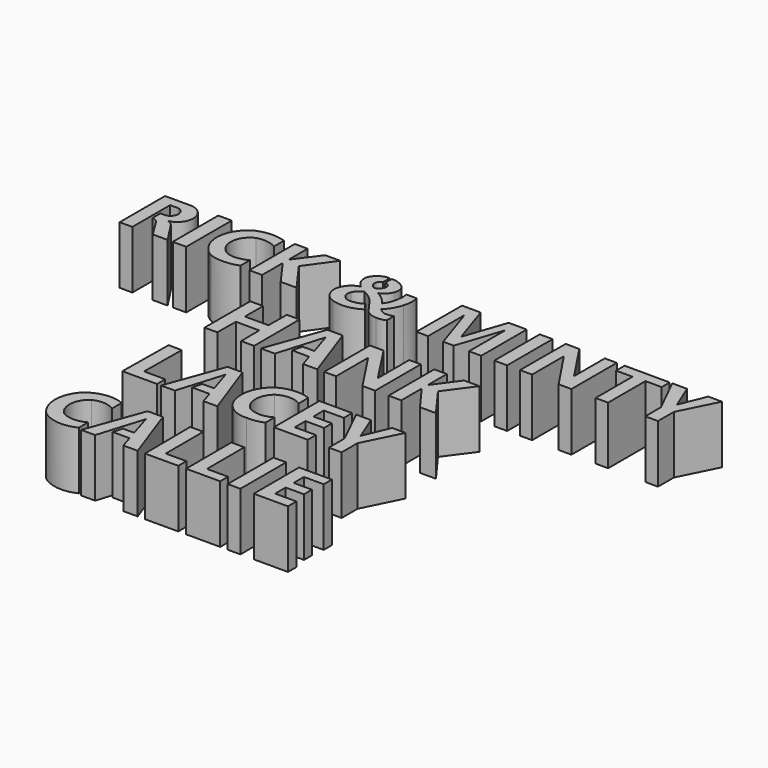
from build123d import *

# Parameters (mm, degrees)
F0_W     = 5.924996
F0_H     = 24.977938
F0_W_2   = 5.664483
F0_H_2   = 24.981067
F0_W_3   = 5.595386
F0_H_3   = 25.144718
F1_DEPTH = 25.4


with BuildPart() as f1:
    # F0 (on Top) → F1 (new body)
    with BuildSketch(Plane.XY):
        with BuildLine():
            Line((40.70925, 242.616519), (47.254633, 242.616519))
            Line((47.254633, 242.616519), (41.246559, 251.826227))
            ThreePointArc((41.246559, 251.826227), (40.093919, 253.021014), (38.581137, 253.704816))
            ThreePointArc((38.581137, 253.704816), (44.086125, 261.692934), (36.337521, 267.530233))
            Line((36.337521, 267.530233), (26.17752, 267.530233))
            Line((26.17752, 267.530233), (26.17752, 242.616519))
            Line((26.17752, 242.616519), (31.770404, 242.616519))
            Line((31.770404, 242.616519), (31.770404, 263.353884))
            Line((31.770404, 263.353884), (35.189636, 263.353884))
            ThreePointArc((35.189636, 263.353884), (38.211639, 259.821173), (35.018675, 256.442189))
            Line((35.018675, 256.442189), (33.015981, 256.442189))
            Line((33.015981, 256.442189), (33.015981, 252.192557))
            ThreePointArc((33.015981, 252.192557), (34.723409, 251.563932), (35.995595, 250.263155))
            Line((35.995595, 250.263155), (40.70925, 242.616519))
        make_face()
        with Locations((52.472873, 255.105488)):
            Rectangle(F0_W, F0_H)
        with BuildLine():
            ThreePointArc((70.004217, 262.701571), (74.491865, 263.076933), (78.777239, 261.692934))
            Line((78.777239, 261.692934), (78.777239, 267.157167))
            ThreePointArc((78.777239, 267.157167), (72.705284, 268.073284), (66.688433, 266.846329))
            ThreePointArc((66.688433, 266.846329), (59.200569, 255.201797), (65.894023, 243.083179))
            ThreePointArc((65.894023, 243.083179), (72.340089, 242.049312), (78.742698, 243.32495))
            Line((78.742698, 243.32495), (78.742698, 248.574957))
            ThreePointArc((78.742698, 248.574957), (74.477052, 247.084853), (69.969676, 247.400612))
            ThreePointArc((69.969676, 247.400612), (65.056925, 255.062221), (70.004217, 262.701571))
        make_face()
        Polygon((83.218813, 267.519742), (83.218813, 242.505327), (88.846028, 242.541939), (88.846028, 253.874242), (96.982561, 242.541939), (103.967562, 242.541939), (94.575927, 255.522072), (103.181042, 267.519742), (96.568041, 267.519742), (88.846028, 257.127851), (88.846028, 267.519742), align=None)
        with BuildLine():
            Line((124.564543, 264.224023), (124.564543, 267.988831))
            ThreePointArc((124.564543, 267.988831), (120.279832, 266.718083), (117.829353, 262.98061))
            ThreePointArc((117.829353, 262.98061), (118.543377, 259.554037), (120.886095, 256.953478))
            ThreePointArc((120.886095, 256.953478), (117.190486, 255.071708), (115.03166, 251.530796))
            ThreePointArc((115.03166, 251.530796), (115.711623, 246.161746), (119.918995, 242.757767))
            ThreePointArc((119.918995, 242.757767), (126.330885, 242.249439), (132.335931, 244.553819))
            Line((132.335931, 244.553819), (129.831821, 247.955948))
            ThreePointArc((129.831821, 247.955948), (126.564415, 246.514044), (122.993007, 246.50529))
            ThreePointArc((122.993007, 246.50529), (120.736857, 248.512169), (120.661594, 251.530796))
            ThreePointArc((120.661594, 251.530796), (122.028875, 253.468712), (124.029197, 254.74295))
            ThreePointArc((124.029197, 254.74295), (127.014712, 253.026463), (129.555508, 250.701815))
            Line((129.555508, 250.701815), (133.717522, 244.950995))
            ThreePointArc((133.717522, 244.950995), (136.039845, 242.905928), (139.053866, 242.205098))
            ThreePointArc((139.053866, 242.205098), (141.223956, 242.265591), (143.284947, 242.947698))
            Line((143.284947, 242.947698), (143.302217, 247.040629))
            ThreePointArc((143.302217, 247.040629), (141.328125, 246.422184), (139.261097, 246.50529))
            ThreePointArc((139.261097, 246.50529), (137.863903, 247.177249), (136.653364, 248.145893))
            ThreePointArc((136.653364, 248.145893), (139.177718, 251.407027), (140.815377, 255.191922))
            ThreePointArc((140.815377, 255.191922), (141.462365, 258.622938), (141.143501, 262.099832))
            Line((141.143501, 262.099832), (136.497945, 262.117118))
            ThreePointArc((136.497945, 262.117118), (136.780226, 260.225811), (136.653364, 258.317769))
            ThreePointArc((136.653364, 258.317769), (135.886331, 254.814284), (134.131983, 251.686186))
            ThreePointArc((134.131983, 251.686186), (131.56731, 254.64252), (128.312096, 256.815314))
            ThreePointArc((128.312096, 256.815314), (130.9033, 258.484975), (132.422283, 261.167288))
            ThreePointArc((132.422283, 261.167288), (132.545246, 263.848969), (131.092519, 266.106427))
            ThreePointArc((131.092519, 266.106427), (128.445333, 267.545478), (125.462562, 267.971545))
            Line((125.462562, 267.971545), (125.462562, 264.31039))
            ThreePointArc((125.462562, 264.31039), (127.352221, 263.422792), (127.655819, 261.357248))
            ThreePointArc((127.655819, 261.357248), (126.565506, 259.834113), (124.892667, 258.991301))
            ThreePointArc((124.892667, 258.991301), (123.561699, 260.04581), (122.768492, 261.547238))
            ThreePointArc((122.768492, 261.547238), (123.156344, 263.227943), (124.564543, 264.224023))
        make_face()
        Polygon((179.69273, 242.61339), (185.065806, 242.61339), (185.065806, 267.594457), (177.103882, 267.624082), (170.851588, 249.309435), (164.8435, 267.594457), (156.637713, 267.624989), (156.544649, 242.61339), (161.71745, 242.594143), (161.71745, 262.64444), (168.360427, 242.61339), (173.001096, 242.596123), (179.69273, 262.64444), align=None)
        with Locations((193.635084, 255.103923)):
            Rectangle(F0_W_2, F0_H_2)
        Polygon((202.184987, 267.594457), (202.092037, 242.61339), (207.436159, 242.61339), (207.436159, 260.017574), (219.054167, 242.634354), (224.688373, 242.61339), (224.688373, 267.574788), (219.402328, 267.594457), (219.402328, 250.701815), (208.191317, 267.572108), align=None)
        Polygon((247.981099, 267.52054), (228.115559, 267.594457), (228.115559, 262.890706), (235.318656, 262.863904), (235.318656, 242.633924), (240.837405, 242.61339), (240.837405, 263.122824), (247.981099, 263.096243), align=None)
        Polygon((255.541998, 267.550628), (249.048769, 267.574788), (257.090271, 251.317441), (257.177413, 242.633253), (262.724847, 242.604211), (262.760937, 251.368493), (270.877689, 267.567486), (264.867842, 267.636597), (260.205001, 256.204039), align=None)
        Polygon((97.850189, 224.71565), (97.850189, 199.618205), (103.478454, 199.675635), (103.535883, 209.783524), (113.816075, 209.726095), (113.931095, 199.662595), (119.616628, 199.675635), (119.559199, 224.71565), (113.98837, 224.71565), (113.873504, 214.722618), (103.535883, 214.722618), (103.535883, 224.71565), align=None)
        Polygon((131.792054, 224.71565), (122.603059, 199.618205), (128.748193, 199.618205), (134.835914, 219.948858), (138.166919, 209.611237), (132.998109, 209.611237), (131.906912, 205.246463), (139.372975, 205.131605), (141.21078, 199.618205), (147.413358, 199.618205), (138.511509, 224.71565), align=None)
        Polygon((150.457203, 224.71565), (150.457203, 199.618205), (155.683458, 199.618205), (155.683458, 217.192158), (167.284563, 199.618205), (172.855392, 199.618205), (172.855392, 224.71565), (167.744011, 224.71565), (167.744011, 207.428843), (156.487495, 224.71565), align=None)
        Polygon((178.770825, 224.658236), (178.770825, 199.618205), (184.341654, 199.618205), (184.341654, 210.817307), (192.55431, 199.618205), (199.560925, 199.618205), (189.969912, 212.712526), (198.699459, 224.600792), (191.980004, 224.600792), (184.341654, 214.148313), (184.341654, 224.658236), align=None)
        Polygon((102.20525, 181.665241), (96.370123, 181.80342), (96.082038, 156.740718), (111.327313, 156.740718), (111.275829, 161.245249), (101.970531, 161.245249), align=None)
        Polygon((122.248111, 181.80342), (113.071837, 156.740718), (119.154312, 156.740718), (125.321999, 176.886737), (128.617376, 166.471347), (123.409681, 166.471347), (122.351065, 162.255257), (129.924998, 162.255257), (131.711841, 156.740718), (137.803346, 156.740718), (128.828526, 181.80342), align=None)
        with BuildLine():
            ThreePointArc((147.787333, 175.781995), (153.04625, 177.30311), (158.305168, 175.781995))
            Line((158.305168, 175.781995), (158.244285, 181.108899))
            ThreePointArc((158.244285, 181.108899), (151.565545, 182.132525), (145.055413, 180.32378))
            ThreePointArc((145.055413, 180.32378), (139.731971, 173.669627), (139.250115, 165.161714))
            ThreePointArc((139.250115, 165.161714), (143.48076, 158.557298), (150.997311, 156.317174))
            ThreePointArc((150.997311, 156.317174), (154.714164, 156.530026), (158.305168, 157.512367))
            Line((158.305168, 157.512367), (158.305168, 162.600547))
            ThreePointArc((158.305168, 162.600547), (153.074008, 161.073183), (147.787333, 162.395656))
            ThreePointArc((147.787333, 162.395656), (144.704381, 169.088826), (147.787333, 175.781995))
        make_face()
        Polygon((162.676215, 181.689739), (162.676215, 156.658649), (177.565098, 156.692803), (177.565098, 161.166295), (168.310761, 161.166295), (168.310761, 167.039886), (176.438183, 167.039886), (176.438183, 171.376795), (168.310761, 171.376795), (168.310761, 177.113801), (177.087009, 177.113801), (177.087009, 181.689739), align=None)
        Polygon((186.853588, 165.332451), (186.853588, 156.658649), (192.488134, 156.658649), (192.488134, 165.366605), (200.581402, 181.621447), (194.673657, 181.621447), (189.926982, 170.284033), (185.385182, 181.655586), (178.862751, 181.655586), align=None)
        with BuildLine():
            ThreePointArc((95.372632, 115.849778), (102.837638, 113.158332), (110.637158, 114.620417))
            Line((110.637158, 114.620417), (110.625486, 119.708806))
            ThreePointArc((110.625486, 119.708806), (105.355328, 118.32244), (100.085169, 119.708806))
            ThreePointArc((100.085169, 119.708806), (97.303781, 126.844359), (101.143785, 133.470565))
            ThreePointArc((101.143785, 133.470565), (105.953467, 134.395458), (110.603005, 132.855892))
            Line((110.603005, 132.855892), (110.603005, 138.148963))
            ThreePointArc((110.603005, 138.148963), (102.410977, 139.139753), (94.96285, 135.587797))
            ThreePointArc((94.96285, 135.587797), (91.174442, 125.635882), (95.372632, 115.849778))
        make_face()
        Polygon((130.81415, 113.814928), (137.131676, 113.814928), (128.136963, 138.933182), (121.423257, 138.917781), (112.271339, 113.814928), (118.41806, 113.829028), (124.633208, 133.947447), (127.809048, 123.532057), (122.857813, 123.520699), (121.662267, 119.400047), (129.106348, 119.417123), align=None)
        Polygon((145.873128, 138.94634), (140.136778, 138.933182), (140.341555, 113.781377), (154.967517, 113.814928), (154.957322, 118.259352), (145.920629, 118.238623), align=None)
        Polygon((158.429245, 113.814928), (173.397735, 113.814928), (173.387744, 118.170201), (164.109452, 118.148917), (164.062246, 138.727541), (158.372128, 138.714489), align=None)
        with Locations((179.472521, 126.387287)):
            Rectangle(F0_W_3, F0_H_3)
        Polygon((188.09287, 138.728458), (188.150018, 113.814928), (203.185962, 113.814928), (203.175294, 118.465504), (193.844681, 118.4441), (193.831408, 124.230412), (201.887561, 124.248892), (201.877491, 128.63888), (193.831408, 128.620423), (193.818451, 134.268883), (202.502704, 134.288804), (202.492444, 138.761489), align=None)
    extrude(amount=F1_DEPTH)


solid = f1.part
